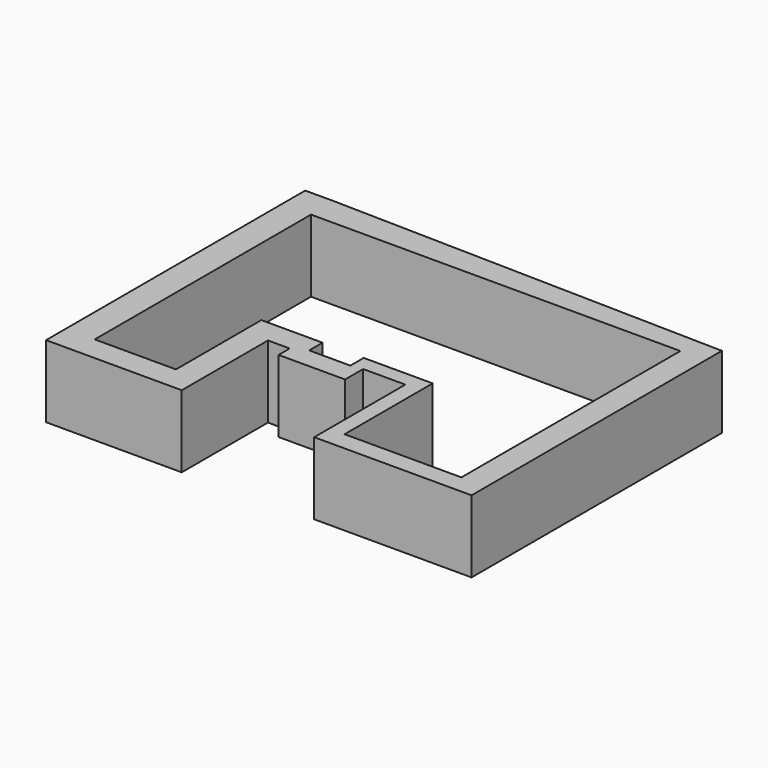
from build123d import *

# Parameters (mm, degrees)
F1_DEPTH = 25.4


with BuildPart() as f1:
    # F0 (on Top) → F1 (new body)
    with BuildSketch(Plane.XY):
        Polygon((70.085101, 53.899866), (-68.491101, 56.833832), (-78.651101, 56.833832), (-78.651101, -56.953683), (-30.996239, -56.953683), (-30.996239, -19.086355), (-23.3617, -19.086355), (-23.3617, -23.972463), (0, -23.972463), (0, -16.032539), (14.811011, -16.032539), (14.811011, -56.037541), (70.085101, -56.037541), align=None)
        Polygon((-68.491101, -10.769275), (-68.491101, 46.673832), (-2.841839, 46.673832), (26.465869, 46.673832), (61.244347, 46.673832), (61.244347, 15.803046), (61.244347, -10.769275), (61.244347, -49.455448), (20.213559, -49.455448), (20.213559, -10.769275), (-4.014147, -10.769275), (-4.014147, -16.630817), (-18.472611, -16.630817), (-18.472611, -10.769275), (-39.964932, -10.769275), (-39.964932, -48.283138), (-68.491101, -48.283138), align=None, mode=Mode.SUBTRACT)
    extrude(amount=F1_DEPTH)


solid = f1.part
